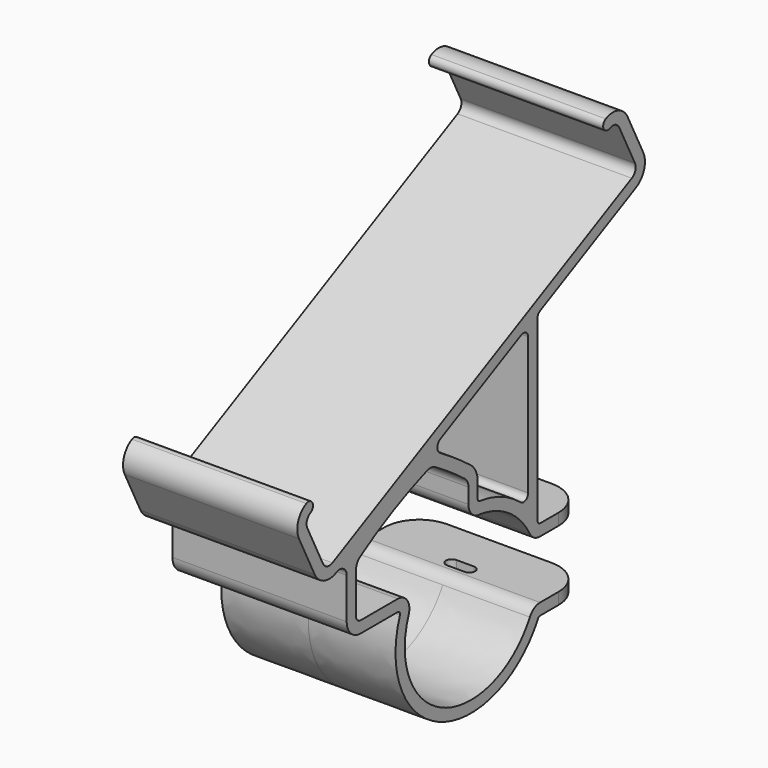
from build123d import *

# Parameters (mm, degrees)
PAD_DEPTH    = 15
POCKET_DEPTH = 8
FILLET_R     = 6


with BuildPart() as part:
    # Sketch → Pad (new body, symmetric)
    with BuildSketch(Plane.YZ):
        with BuildLine():
            ThreePointArc((14.859525, 5), (13.575687, 5.354828), (12.656284, 6.318591))
            add(Edge.make_bspline(
                [(12.656284, 6.318591), (9.180127, 12.801365), (1.667575, 13.655527)],
                knots=[0.47747, 0.47747, 0.47747, 1.453505, 1.453505, 1.453505], degree=2, weights=[1, 0.883264, 1]))
            ThreePointArc((1.667575, 13.655527), (0.085052, 14.4746), (-0.55, 16.139523))
            Line((-0.55, 16.139523), (-0.55, 18.75))
            ThreePointArc((-0.55, 18.75), (-0.755496, 19.633037), (-1.329754, 20.334613))
            ThreePointArc((-1.329754, 20.334613), (-4.460432, 22.61037), (-7.712107, 24.709613))
            ThreePointArc((-7.712107, 24.709613), (-8.551696, 24.990145), (-9.430133, 24.880803))
            ThreePointArc((-9.430133, 24.880803), (-16.843172, 21.706161), (-23.841898, 17.7))
            ThreePointArc((-23.841898, 17.7), (-24.508379, 16.977307), (-24.75, 16.024363))
            Line((-24.75, 16.024363), (-24.75, 9))
            ThreePointArc((-24.75, 9), (-24.457107, 8.292893), (-23.75, 8))
            Line((-23.75, 8), (-15.761615, 8))
            ThreePointArc((-15.761615, 8), (-13.709464, 6.927846), (-13.417467, 4.630983))
            add(Edge.make_bspline(
                [(-13.417467, 4.630983), (-17.905702, -7.476352), (-5.68662, -12.60771), (6.532461, -17.739067), (12.656284, -6.318591)],
                knots=[2.798078, 2.798078, 2.798078, 4.301896, 4.301896, 5.805715, 5.805715, 5.805715], degree=2, weights=[1, 0.730386, 1, 0.730386, 1]))
            ThreePointArc((12.656284, -6.318591), (13.575687, -5.354828), (14.859525, -5))
            Line((14.859525, -5), (24.859525, -5))
            Line((24.859525, -5), (24.859525, -7))
            Line((24.859525, -7), (14.859525, -7))
            ThreePointArc((14.859525, -7), (14.602761, -7.070964), (14.41888, -7.263711))
            add(Edge.make_bspline(
                [(-15.292794, 5.326167), (-20.430323, -8.532169), (-6.509034, -14.431107), (7.412256, -20.330046), (14.41888, -7.263711)],
                knots=[2.797097, 2.797097, 2.797097, 4.300712, 4.300712, 5.804327, 5.804327, 5.804327], degree=2, weights=[1, 0.730456, 1, 0.730456, 1]))
            ThreePointArc((-15.292794, 5.326167), (-15.351188, 5.785537), (-15.761615, 5.999967))
            Line((-15.761615, 5.999967), (-23.75, 5.999967))
            ThreePointArc((-23.75, 5.999967), (-25.871343, 6.878657), (-26.750033, 9))
            Line((-26.750033, 9), (-26.750033, 16.024342))
            ThreePointArc((-26.750033, 16.024342), (-27.467308, 17.311903), (-28.93962, 17.379689))
            ThreePointArc((-28.93962, 17.379689), (-31.611926, 17.193515), (-33.633178, 18.951476))
            Line((-33.633178, 18.951476), (-37.02253, 25.75385))
            ThreePointArc((-37.02253, 25.75385), (-37.208704, 28.426157), (-35.450743, 30.447408))
            ThreePointArc((-35.450743, 30.447408), (-34.109726, 29.998326), (-34.558808, 28.657309))
            ThreePointArc((-34.558808, 28.657309), (-35.31222, 27.791059), (-35.232431, 26.645785))
            Line((-35.232431, 26.645785), (-31.843079, 19.84341))
            ThreePointArc((-31.843079, 19.84341), (-30.976829, 19.089999), (-29.831554, 19.169788))
            Line((-29.831554, 19.169788), (34.61199, 51.279437))
            ThreePointArc((34.61199, 51.279437), (35.365402, 52.145688), (35.285613, 53.290962))
            Line((35.285613, 53.290962), (31.896261, 60.093336))
            ThreePointArc((31.896261, 60.093336), (31.03001, 60.846748), (29.884736, 60.766959))
            ThreePointArc((29.884736, 60.766959), (28.54372, 61.216041), (28.992801, 62.557057))
            ThreePointArc((28.992801, 62.557057), (31.665108, 62.743232), (33.686359, 60.985271))
            Line((33.686359, 60.985271), (37.075711, 54.182897))
            ThreePointArc((37.075711, 54.182897), (37.261886, 51.51059), (35.503925, 49.489339))
            Line((35.503925, 49.489339), (14.854206, 39.200407))
            ThreePointArc((14.854206, 39.200407), (14.449889, 38.831681), (14.300173, 38.305358))
            Line((14.300173, 38.305358), (14.300173, 7.736282))
            ThreePointArc((14.300173, 7.736282), (14.330303, 7.49266), (14.418877, 7.263718))
            ThreePointArc((14.418877, 7.263718), (14.602757, 7.070966), (14.859525, 7))
            Line((14.859525, 7), (24.859525, 7))
            Line((24.859525, 7), (24.859525, 5))
            Line((24.859525, 5), (14.859525, 5))
        make_face()
        with BuildLine():
            Line((1.45, 18.75), (1.45, 16.139523))
            ThreePointArc((1.45, 16.139523), (1.577009, 15.80654), (1.893511, 15.642724))
            add(Edge.make_bspline(
                [(10.656145, 11.890813), (6.87187, 15.076658), (1.893511, 15.642724)],
                knots=[0.85548, 0.85548, 0.85548, 1.453884, 1.453884, 1.453884], degree=2, weights=[1, 0.955572, 1]))
            ThreePointArc((10.656145, 11.890813), (11.722057, 11.749165), (12.300173, 12.655815))
            Line((12.300173, 12.655815), (12.300173, 36.312317))
            ThreePointArc((12.300173, 36.312317), (11.826496, 37.162601), (10.854206, 37.207366))
            Line((10.854206, 37.207366), (-6.586713, 28.517252))
            ThreePointArc((-6.586713, 28.517252), (-7.24994, 27.494075), (-6.674214, 26.419227))
            ThreePointArc((-6.674214, 26.419227), (-3.329634, 24.260005), (-0.109508, 21.919227))
            ThreePointArc((-0.109508, 21.919227), (1.039009, 20.516073), (1.45, 18.75))
        make_face(mode=Mode.SUBTRACT)
    extrude(amount=PAD_DEPTH, both=True)

    # Sketch001 → Pocket (cut, symmetric)
    with BuildSketch(Plane.XY):
        with BuildLine():
            ThreePointArc((-1.5, 17.5), (-2.5, 16.5), (-1.5, 15.5))
            Line((-1.5, 15.5), (1.5, 15.5))
            ThreePointArc((1.5, 15.5), (2.5, 16.5), (1.5, 17.5))
            Line((-1.5, 17.5), (1.5, 17.5))
        make_face()
    extrude(amount=POCKET_DEPTH, both=True, mode=Mode.SUBTRACT)

    # Fillet
    fillet_edges = [part.edges().sort_by_distance(p)[0] for p in [
        (15, 24.859525, 6),
        (15, 24.859525, -6),
        (-15, 24.859525, -6),
        (-15, 24.859525, 6),
    ]]
    fillet(fillet_edges, radius=FILLET_R)


solid = part.part
